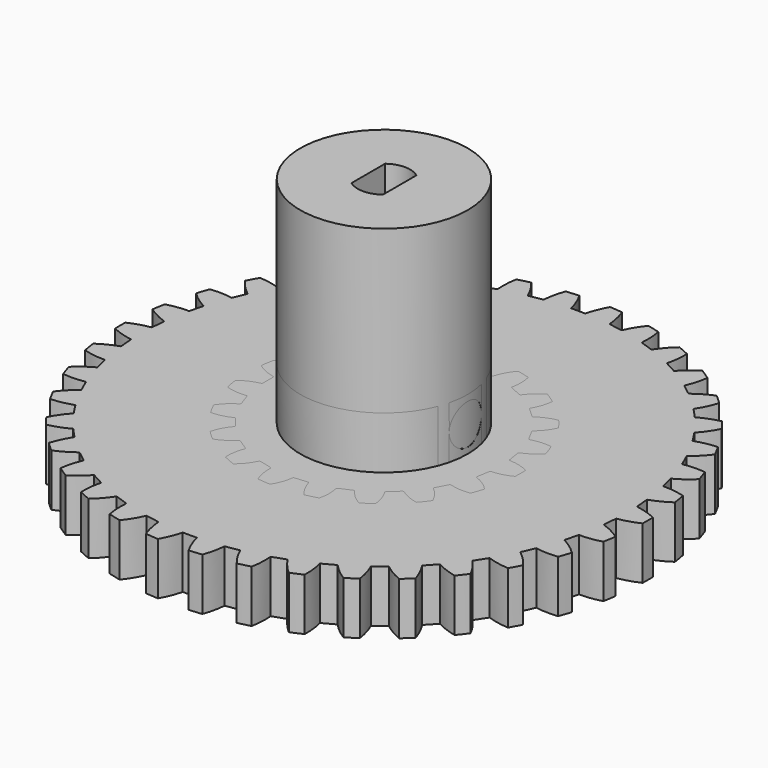
from build123d import *

# Parameters (mm, degrees)
SKETCH_R              = 25.2012
PAD_DEPTH             = 5
POCKET_DEPTH          = 147.910816
POLARPATTERN_COUNT    = 38
SKETCH005_R           = 13.0379
PAD002_DEPTH          = 5
POCKET002_DEPTH       = 79.429347
POLARPATTERN001_COUNT = 19
SKETCH002_R           = 8
PAD001_DEPTH          = 20.5
POCKET001_DEPTH       = 25.501
SKETCH009_R           = 1.925
PAD004_DEPTH          = 10
SKETCH006_R           = 8
PAD003_DEPTH          = 5
POCKET003_DEPTH       = 10.001


with BuildPart() as polarpattern:
    # Sketch → Pad (new body)
    with BuildSketch(Plane.XY):
        Circle(SKETCH_R)
    extrude(amount=PAD_DEPTH)

    # Sketch001 → Pocket (cut, through all)
    with BuildSketch(Plane.XY.offset(5)):
        with BuildLine():
            ThreePointArc((-0.673495, 23.186), (-1.002835, 24.2061), (-1.47491, 25.1685))
            ThreePointArc((1.47491, 25.1685), (0, 26.756546), (-1.47491, 25.1685))
            ThreePointArc((1.47491, 25.1685), (1.002835, 24.2061), (0.673495, 23.186))
            Line((-0.673495, 23.186), (0.673495, 23.186))
        make_face()
    pocket = extrude(amount=-POCKET_DEPTH, mode=Mode.SUBTRACT)

    # PolarPattern: Pocket ×38 about axis
    polarpattern_axis = Axis((0, 0, 5), (0, 0, 1))
    for i in range(1, POLARPATTERN_COUNT):
        add(pocket.rotate(polarpattern_axis, i * 360 / POLARPATTERN_COUNT), mode=Mode.SUBTRACT)


with BuildPart() as polarpattern001:
    # Sketch005 → Pad002 (new body)
    with BuildSketch(Plane.XY):
        Circle(SKETCH005_R)
    extrude(amount=PAD002_DEPTH)

    # Sketch004 → Pocket002 (cut, through all)
    with BuildSketch(Plane.XY.offset(5)):
        with BuildLine():
            Line((-11.080009, 0.600814), (-11.080009, -0.600814))
            ThreePointArc((-11.186194, -0.726572), (-11.110106, -0.68311), (-11.080009, -0.600814))
            ThreePointArc((-11.186194, -0.726572), (-12.12299, -1.030605), (-12.963472, -1.544038))
            ThreePointArc((-12.963472, 1.544038), (-16.139015, 0), (-12.963472, -1.544038))
            ThreePointArc((-12.963472, 1.544038), (-12.12299, 1.030605), (-11.186194, 0.726572))
            ThreePointArc((-11.080009, 0.600814), (-11.110106, 0.68311), (-11.186194, 0.726572))
        make_face()
    pocket002 = extrude(amount=-POCKET002_DEPTH, mode=Mode.SUBTRACT)

    # PolarPattern001: Pocket002 ×19 about axis
    polarpattern001_axis = Axis((0, 0, 5), (0, 0, 1))
    for i in range(1, POLARPATTERN001_COUNT):
        add(pocket002.rotate(polarpattern001_axis, i * 360 / POLARPATTERN001_COUNT), mode=Mode.SUBTRACT)


with BuildPart() as pocket001:
    # Pad001 base: copy of PolarPattern001
    add(polarpattern001.part)

    # Sketch002 → Pad001 (new body)
    with BuildSketch(Plane.XY.offset(5)):
        Circle(SKETCH002_R)
    extrude(amount=PAD001_DEPTH)

    # Sketch003 → Pocket001 (cut, through all)
    with BuildSketch(Plane.XY.offset(25.5)):
        with BuildLine():
            Line((-1.5, 2), (-1.5, -2))
            ThreePointArc((-1.5, -2), (0, -2.5), (1.5, -2))
            Line((1.5, 2), (1.5, -2))
            ThreePointArc((1.5, 2), (0, 2.5), (-1.5, 2))
        make_face()
    extrude(amount=-POCKET001_DEPTH, mode=Mode.SUBTRACT)


with BuildPart() as pad004:
    # Sketch009 → Pad004 (new body)
    with BuildSketch(Plane.YZ):
        with Locations((0, 7.5)):
            Circle(SKETCH009_R)
    extrude(amount=PAD004_DEPTH)


with BuildPart() as cut:
    # Pad003 base: copy of PolarPattern001
    add(polarpattern001.part)

    # Sketch006 → Pad003 (new body)
    with BuildSketch(Plane.XY.offset(5)):
        Circle(SKETCH006_R)
    extrude(amount=PAD003_DEPTH)

    # Sketch007 → Pocket003 (cut, through all)
    with BuildSketch(Plane.XY.offset(10)):
        with BuildLine():
            Line((-1.5, 2), (-1.5, -2))
            ThreePointArc((-1.5, -2), (0, -2.5), (1.5, -2))
            Line((1.5, 2), (1.5, -2))
            ThreePointArc((1.5, 2), (0, 2.5), (-1.5, 2))
        make_face()
    extrude(amount=-POCKET003_DEPTH, mode=Mode.SUBTRACT)

    # Cut: cut Pad004
    add(pad004.part, mode=Mode.SUBTRACT)


solid = Compound([polarpattern.part, pocket001.part, cut.part])
